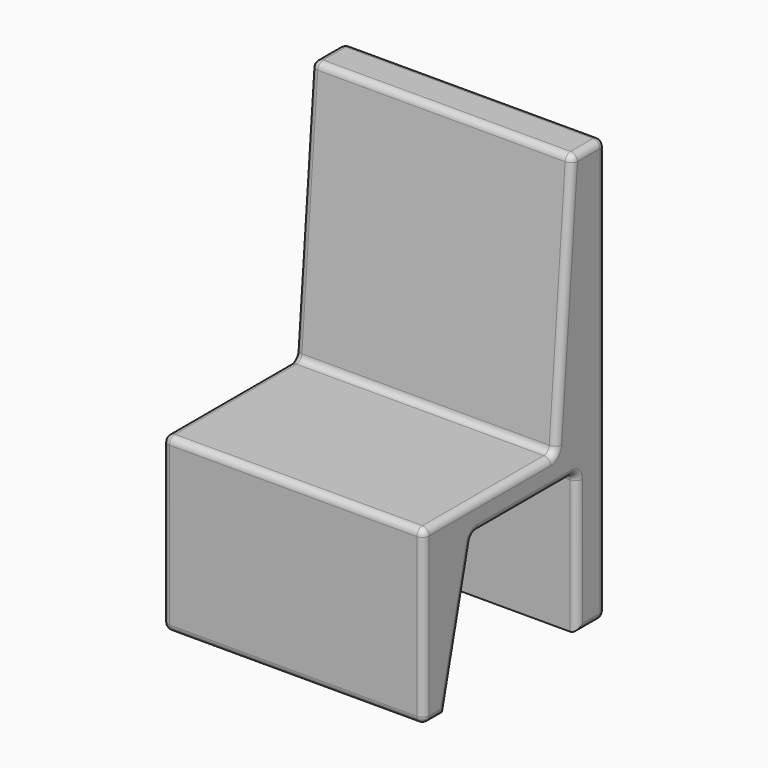
from build123d import *

# Parameters (mm, degrees)
F1_DEPTH = 482.6
F2_R     = 12.7


with BuildPart() as f1:
    # F0 (on Right) → F1 (new body)
    with BuildSketch(Plane.YZ):
        Polygon((33.734092, 69.37997), (-42.465908, 69.37997), (-80.995351, -400.415391), (-385.953367, -400.415391), (-385.953367, -718.258917), (-336.558729, -718.258917), (-272.130996, -451.957613), (-31.758729, -451.957613), (-31.758729, -711.816192), (33.734092, -711.816192), align=None)
    extrude(amount=F1_DEPTH)

    # F2
    f2_edges = [f1.edges().sort_by_distance(p)[0] for p in [
        (241.3, -385.953367, -400.415391),
        (241.3, -385.953367, -718.258917),
        (0, -385.953367, -559.337154),
        (482.6, -385.953367, -559.337154),
        (241.3, -80.995351, -400.415391),
        (0, -233.474359, -400.415391),
        (482.6, -233.474359, -400.415391),
        (482.6, -4.365908, 69.37997),
        (482.6, -61.730629, -165.51771),
        (482.6, -361.256048, -718.258917),
        (482.6, -304.344863, -585.108265),
        (482.6, -151.944863, -451.957613),
        (482.6, -31.758729, -581.886902),
        (482.6, 0.987682, -711.816192),
        (482.6, 33.734092, -321.218111),
        (241.3, -42.465908, 69.37997),
        (0, -61.730629, -165.51771),
        (241.3, 33.734092, 69.37997),
        (0, -4.365908, 69.37997),
        (241.3, 33.734092, -711.816192),
        (0, 33.734092, -321.218111),
        (0, -361.256048, -718.258917),
        (0, -304.344863, -585.108265),
        (0, -151.944863, -451.957613),
        (0, -31.758729, -581.886902),
        (0, 0.987682, -711.816192),
        (241.3, -272.130996, -451.957613),
        (241.3, -31.758729, -451.957613),
    ]]
    fillet(f2_edges, radius=F2_R)


solid = f1.part
